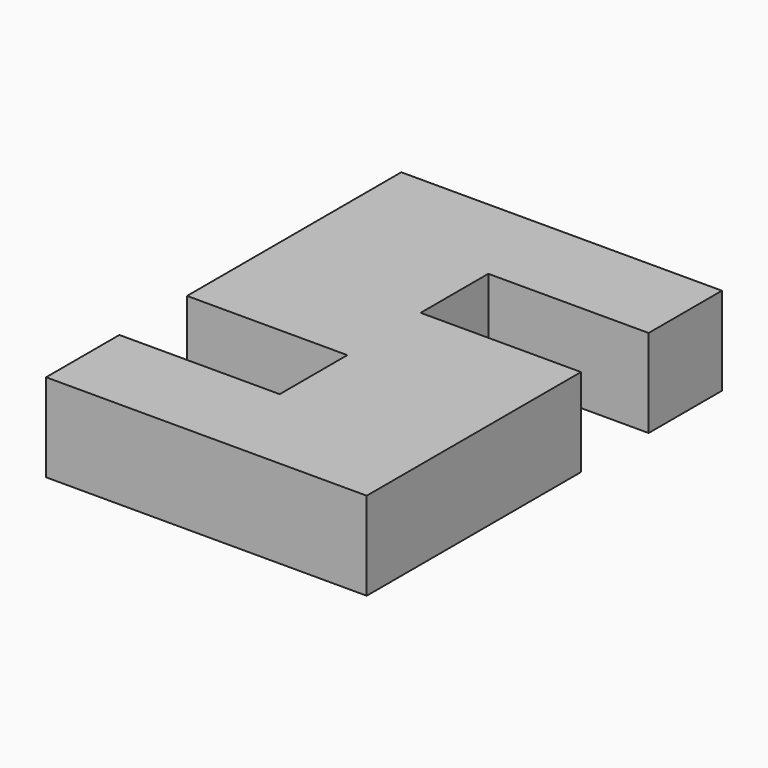
from build123d import *

# Parameters (mm, degrees)
PAD_DEPTH = 5


with BuildPart() as part:
    # Sketch → Pad (new body)
    with BuildSketch(Plane.XY):
        Polygon((-9.1, 12.6), (9.1, 12.6), (9.1, 7.4), (0, 7.4), (0, 2.6), (9.1, 2.6), (9.1, -12.6), (-9.1, -12.6), (-9.1, -7.4), (0, -7.4), (0, -2.6), (-9.1, -2.6), align=None)
    extrude(amount=PAD_DEPTH)


solid = part.part
